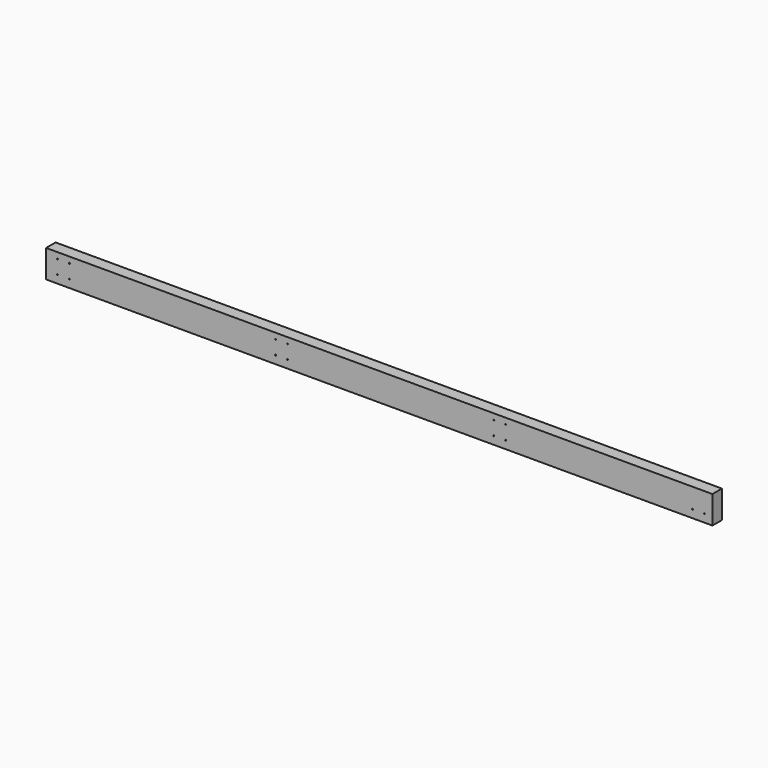
from build123d import *

# Parameters (mm, degrees)
F0_W     = 2133.6
F0_H     = 88.9
F1_DEPTH = 38.1
F3_D     = 3.175


with BuildPart() as f1:
    # F0 (on Front) → F1 (new body)
    with BuildSketch(Plane.XZ):
        with Locations((954.09364, 64.286581)):
            Rectangle(F0_W, F0_H)
    extrude(amount=F1_DEPTH)

    # F3 (through all)
    with Locations(Plane.XZ.offset(38.1)):
        with Locations((1995.49364, 45.236581), (1957.39364, 45.236581), (1358.90614, 89.686581), (1358.91884, 45.236581), (1320.81884, 45.236581), (1320.80614, 89.686581), (660.39344, 45.236581), (622.29344, 45.236581), (622.30614, 89.686581), (660.40614, 89.686581), (-76.18116, 45.236581), (-38.08116, 45.236581), (-38.09386, 89.686581), (-76.19386, 89.686581)):
            Hole(F3_D / 2)


solid = f1.part
